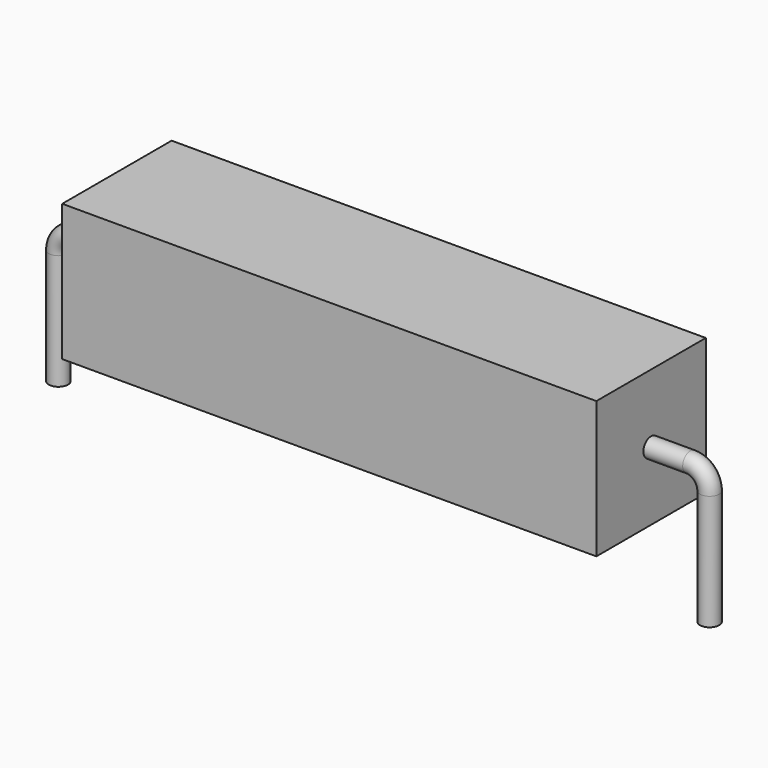
from build123d import *

# Parameters (mm, degrees)
SKETCH_R    = 0.45
SKETCH002_W = 25
SKETCH002_H = 6.4
PAD_DEPTH   = 3.2


with BuildPart() as sweep_body:
    # Sweep: sweep along a path in Sketch001
    with BuildLine(Plane.XZ) as sweep_path:
        Line((0, -3), (0, 2.4))
        ThreePointArc((0, 2.4), (0.263601, 3.036393), (0.899991, 3.3))
        Line((0.899991, 3.3), (29.58, 3.3))
        ThreePointArc((29.58, 3.3), (30.216396, 3.036396), (30.48, 2.4))
        Line((30.48, 2.4), (30.48, -3))
    # Sketch → Sweep (sweep)
    with BuildSketch(Plane.XY.offset(-2)):
        Circle(SKETCH_R)
    sweep(path=sweep_path.line)


with BuildPart() as pad:
    # Sketch002 → Pad (new body, symmetric)
    with BuildSketch(Plane.XZ):
        with Locations((15.24, 3.3)):
            Rectangle(SKETCH002_W, SKETCH002_H)
    extrude(amount=PAD_DEPTH, both=True)


solid = Compound([sweep_body.part, pad.part])
